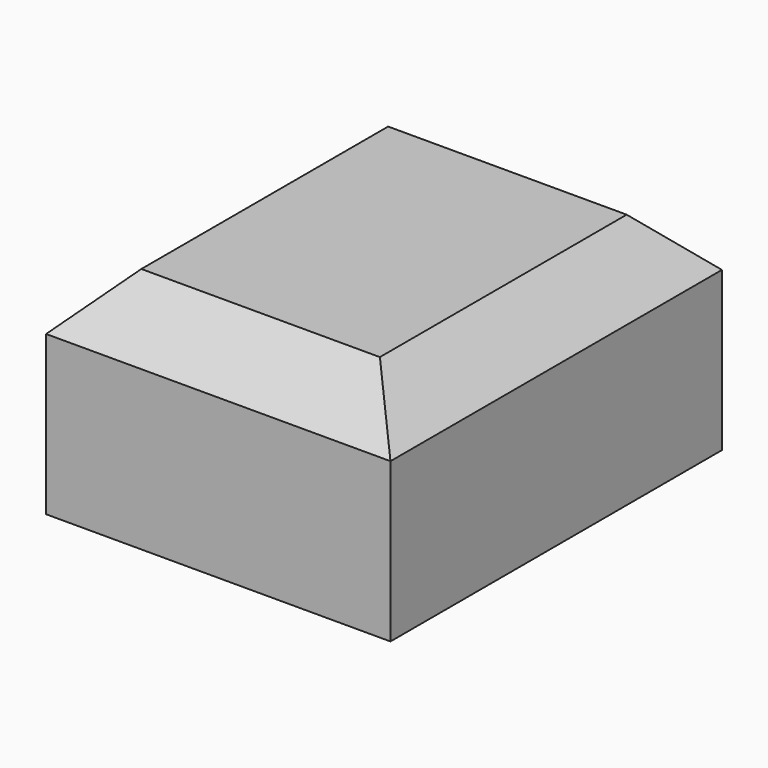
from build123d import *

# Parameters (mm, degrees)
F1_DEPTH = 50.8
F2_SIZE  = 12.7


with BuildPart() as f1:
    # F0 (on Top) → F1 (new body)
    with BuildSketch(Plane.XY):
        Polygon((-82.669694, 0), (-82.669694, -48.654952), (0, -48.654952), (0, 50.8), (-71.840628, 50.8), (-82.669694, 50.8), align=None)
    extrude(amount=F1_DEPTH)

    # F2
    f2_edges = [f1.edges().sort_by_distance(p)[0] for p in [
        (-41.334847, -48.654952, 50.8),
        (-82.669694, 1.072524, 50.8),
        (0, 1.072524, 50.8),
        (-41.334847, 50.8, 50.8),
    ]]
    chamfer(f2_edges, length=F2_SIZE)


solid = f1.part
